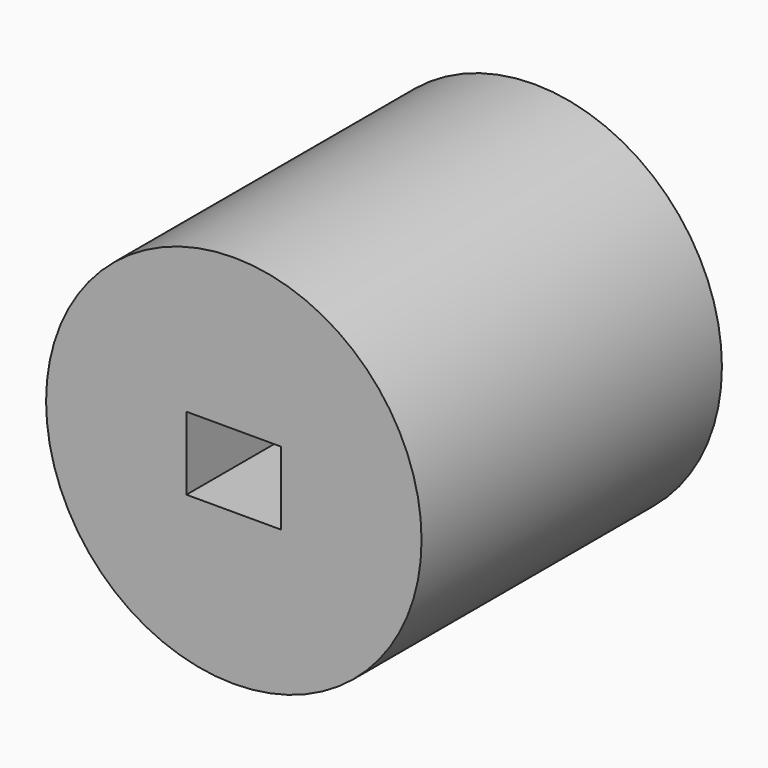
from build123d import *

# Parameters (mm, degrees)
F0_R     = 38.1
F1_DEPTH = 76.2
F2_W     = 19.224532
F2_H     = 14.830356
F3_DEPTH = 76.201


with BuildPart() as f1:
    # F0 (on Front) → F1 (new body)
    with BuildSketch(Plane.XZ):
        Circle(F0_R)
    extrude(amount=F1_DEPTH)

    # F2 (on face) → F3 (cut, through all)
    with BuildSketch(Plane.XZ.offset(76.2)):
        Rectangle(F2_W, F2_H)
    extrude(amount=-F3_DEPTH, mode=Mode.SUBTRACT)


solid = f1.part
